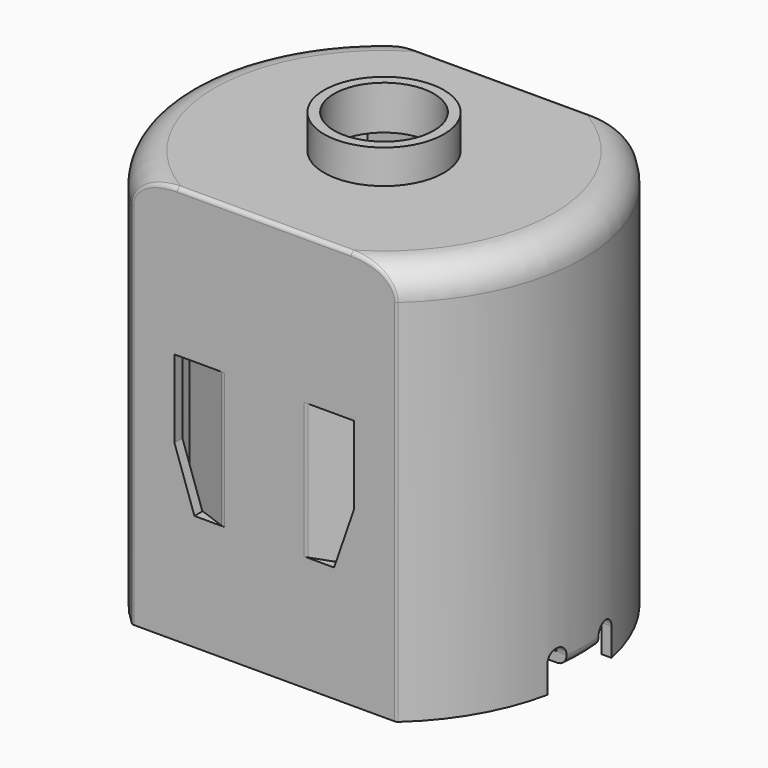
from build123d import *

# Parameters (mm, degrees)
SKETCH001_W          = 24
SKETCH001_H          = 24
SKETCH001_W_2        = 22
SKETCH001_H_2        = 15
POCKET_DEPTH         = 20.001
POCKET001_DEPTH      = 18.5
POCKET011_DEPTH      = 1
CHAMFER_SIZE         = 0.98
POCKET009_DEPTH      = 10.001
POCKET009_DEPTH_BACK = 10.001
PAD_DEPTH            = 0.5
POCKET010_DEPTH      = 0.6
PAD001_DEPTH         = 6.8
FILLET001_R          = 0.2
FILLET002_R          = 0.48


with BuildPart() as part:
    # Sketch → Revolution (revolve)
    with BuildSketch(Plane.XZ):
        with BuildLine():
            Line((2.5, 0), (10, 0))
            Line((10, 0), (10, 18.5))
            ThreePointArc((10, 18.5), (9.56066, 19.56066), (8.5, 20))
            Line((8.5, 20), (3, 20))
            Line((3, 20), (3, 21.7))
            Line((3, 21.7), (2.5, 21.7))
            Line((2.5, 21.7), (2.5, 0))
        make_face()
    revolve(axis=Axis((0, 0, 0), (0, 0, 1)))

    # Sketch001 → Pocket (cut, through all)
    with BuildSketch(Plane.XY.offset(20)):
        Rectangle(SKETCH001_W, SKETCH001_H)
        Rectangle(SKETCH001_W_2, SKETCH001_H_2, mode=Mode.SUBTRACT)
    extrude(amount=-POCKET_DEPTH, mode=Mode.SUBTRACT)

    # Sketch002 → Pocket001 (cut)
    with BuildSketch(Plane.XY):
        with BuildLine():
            ThreePointArc((-6.422616, 7), (-9.5, 0), (-6.422616, -7))
            Line((-6.422616, -7), (6.422616, -7))
            ThreePointArc((6.422616, -7), (9.5, 0), (6.422616, 7))
            Line((-6.422616, 7), (6.422616, 7))
        make_face()
    extrude(amount=POCKET001_DEPTH, mode=Mode.SUBTRACT)

    # Sketch016 → Pocket011 (cut)
    with BuildSketch(Plane.XY.offset(18.5)):
        with BuildLine():
            ThreePointArc((-4.821825, 7), (-8.5, 0), (-4.821825, -7))
            Line((-4.821825, -7), (4.821825, -7))
            ThreePointArc((4.821825, -7), (8.5, 0), (4.821825, 7))
            Line((-4.821825, 7), (4.821825, 7))
        make_face()
    extrude(amount=POCKET011_DEPTH, mode=Mode.SUBTRACT)

    # Chamfer
    chamfer_edges = [part.edges().sort_by_distance(p)[0] for p in [
        (8.5, 0, 18.5),
        (-8.5, 0, 18.5),
    ]]
    chamfer(chamfer_edges, length=CHAMFER_SIZE)

    # Sketch011 → Pocket009 (cut, two sides)
    with BuildSketch(Plane.YZ) as pocket009_sk:
        with BuildLine():
            ThreePointArc((-1, 1.4), (-1.5, 1.9), (-2, 1.4))
            Line((-2, 1.4), (-2, -0.5))
            Line((-2, -0.5), (2, -0.5))
            Line((2, 1.4), (2, -0.5))
            ThreePointArc((2, 1.4), (1.5, 1.9), (1, 1.4))
            Line((1, 1.4), (1, 0.9))
            Line((-1, 0.9), (1, 0.9))
            Line((-1, 1.4), (-1, 0.9))
        make_face()
    extrude(amount=-POCKET009_DEPTH, mode=Mode.SUBTRACT)
    extrude(pocket009_sk.sketch, amount=POCKET009_DEPTH_BACK, mode=Mode.SUBTRACT)

    # Sketch012 → Pad (join)
    with BuildSketch(Plane(origin=(0, 0, 1.4), x_dir=(-1, 0, 0), z_dir=(0, 0, -1))):
        with BuildLine():
            Line((9.447222, 1), (8.1, 1))
            Line((8.1, 1), (8.1, -1))
            Line((8.1, -1), (9.447222, -1))
            ThreePointArc((9.447222, -1), (9.5, 0), (9.447222, 1))
        make_face()
        with BuildLine():
            Line((-9.447222, 1), (-8.1, 1))
            Line((-8.1, 1), (-8.1, -1))
            Line((-8.1, -1), (-9.447222, -1))
            ThreePointArc((-9.447222, 1), (-9.5, 0), (-9.447222, -1))
        make_face()
    extrude(amount=PAD_DEPTH)

    # Sketch013 → Pocket010 (cut)
    with BuildSketch(Plane.XZ.offset(7.5)):
        Polygon((2, 12.6), (4.5, 12.6), (4.5, 8.7), (3.5, 5.8), (2, 5.8), align=None)
        Polygon((-4.5, 12.6), (-2, 12.6), (-2, 5.8), (-3.5, 5.8), (-4.5, 8.7), align=None)
    extrude(amount=-POCKET010_DEPTH, mode=Mode.SUBTRACT)

    # Sketch014 → Pad001 (join)
    with BuildSketch(Plane.XY.offset(5.8)):
        with BuildLine():
            Line((2, -7), (4.255262, -6.179152))
            Line((4.255262, -6.179152), (4.426272, -6.648998))
            Line((4.426272, -6.648998), (2.17101, -7.469846))
            ThreePointArc((2, -7.5), (2.086824, -7.492404), (2.17101, -7.469846))
            Line((2, -7), (2, -7.5))
        make_face()
        with BuildLine():
            Line((-2, -7), (-2, -7.5))
            ThreePointArc((-2.17101, -7.469846), (-2.086824, -7.492404), (-2, -7.5))
            Line((-2.17101, -7.469846), (-4.426272, -6.648998))
            Line((-4.426272, -6.648998), (-4.255262, -6.179152))
            Line((-4.255262, -6.179152), (-2, -7))
        make_face()
    extrude(amount=PAD001_DEPTH)

    # Fillet001
    fillet001_edges = [part.edges().sort_by_distance(p)[0] for p in [
        (-6.614378, -7.5, 9.25),
        (-5.626056, -7.5, 19.717894),
        (0, -7.5, 20),
        (5.626056, -7.5, 19.717894),
        (6.614378, -7.5, 9.25),
        (6.614378, 7.5, 9.25),
        (5.626056, 7.5, 19.717894),
        (0, 7.5, 20),
        (-5.626056, 7.5, 19.717894),
        (-6.614378, 7.5, 9.25),
    ]]
    fillet(fillet001_edges, radius=FILLET001_R)

    # Fillet002
    fillet002_edges = [part.edges().sort_by_distance(p)[0] for p in [
        (-10, 0, 0.9),
        (9.987461, 0.500628, 0.9),
        (9.987461, -0.500628, 0.9),
    ]]
    fillet(fillet002_edges, radius=FILLET002_R)


solid = part.part
